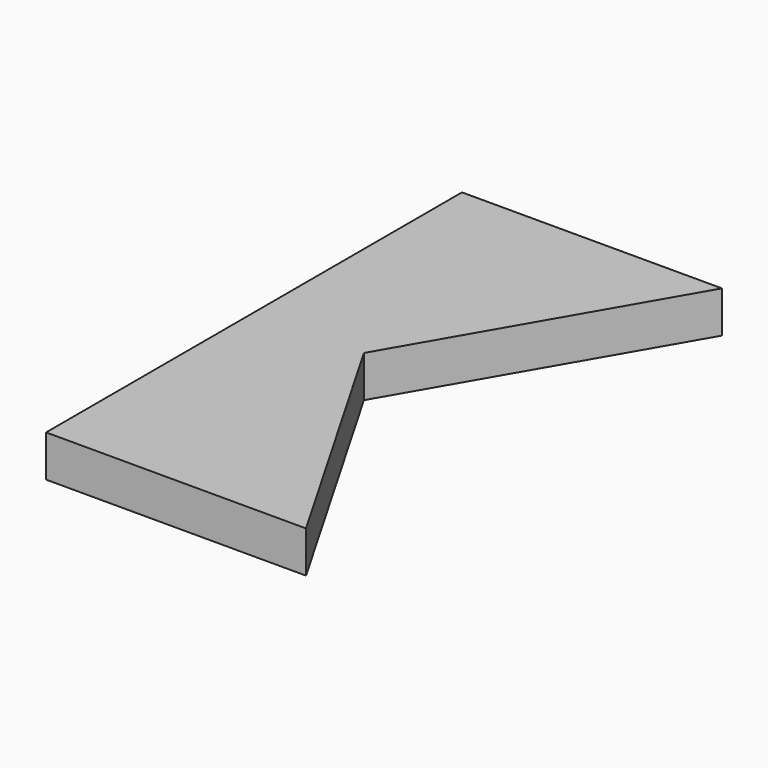
from build123d import *

# Parameters (mm, degrees)
F0_W     = 50
F0_H     = 50
F1_DEPTH = 4
F3_DEPTH = 4.001


with BuildPart() as f1:
    # F0 (on Top) → F1 (new body)
    with BuildSketch(Plane.XY):
        with Locations((25, -25)):
            Rectangle(F0_W, F0_H)
    extrude(amount=F1_DEPTH)

    # F2 (on face) → F3 (cut, through all)
    with BuildSketch(Plane.XY.offset(4)):
        Polygon((50, 0), (25, 0), (10.566243, -25), (25, -50), (50, -50), align=None)
    extrude(amount=-F3_DEPTH, mode=Mode.SUBTRACT)


solid = f1.part
